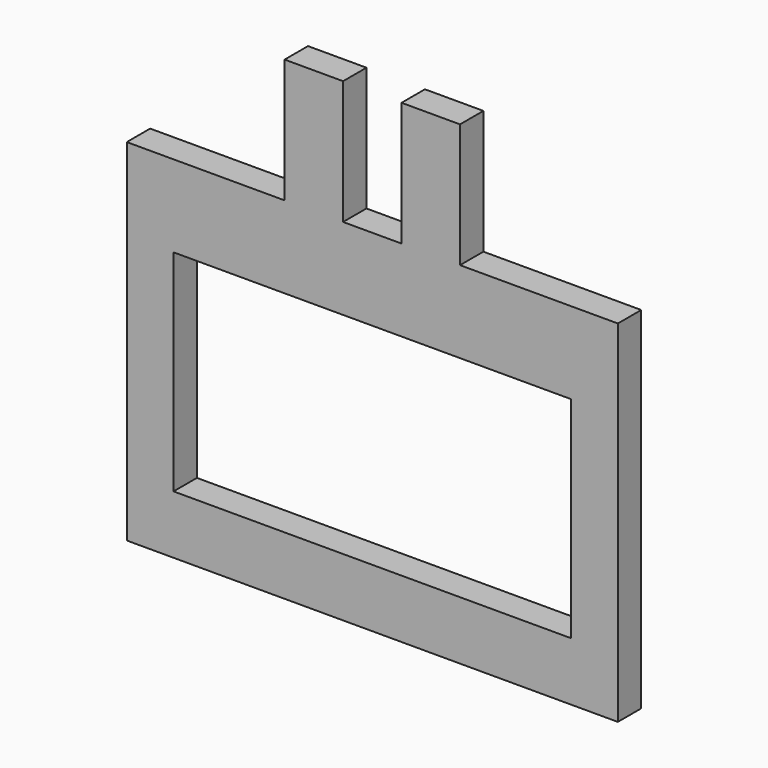
from build123d import *

# Parameters (mm, degrees)
F1_DEPTH = 3.175


with BuildPart() as f1:
    # F0 (on Front) → F1 (new body)
    with BuildSketch(Plane.XZ):
        Polygon((-26.67, 0), (0, 0), (26.67, 0), (26.67, 38.1), (9.525, 38.1), (9.525, 51.562462), (3.175, 51.562462), (3.175, 38.1), (0, 38.1), (-3.175, 38.1), (-3.175, 51.562462), (-9.525, 51.562462), (-9.525, 38.1), (-26.67, 38.1), align=None)
        Polygon((21.59, 6.35), (0, 6.35), (-21.59, 6.35), (-21.59, 29.21), (0, 29.21), (21.59, 29.21), align=None, mode=Mode.SUBTRACT)
    extrude(amount=F1_DEPTH)


solid = f1.part
